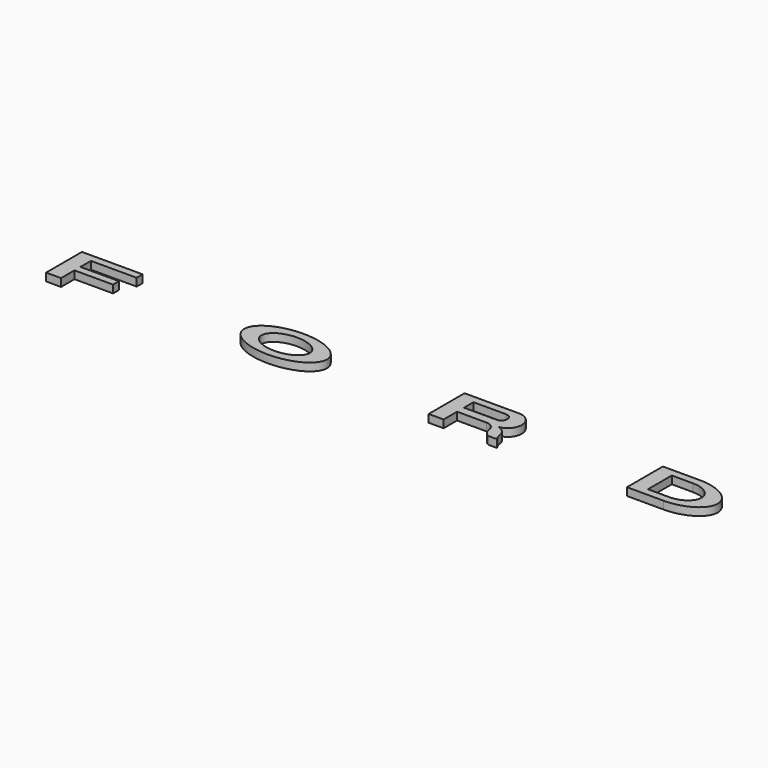
from build123d import *

# Parameters (mm, degrees)
F5_DEPTH  = 1.25
F7_DEPTH  = 1.25
F9_DEPTH  = 1.25
F11_DEPTH = 1.25


with BuildPart() as f5:
    # F4 (on face) → F5 (new body)
    with BuildSketch(Plane.XY):
        with BuildLine():
            add(Edge.make_bspline(
                [(40.8, 0), (40.8, -3.6), (46.65, -3.6)],
                knots=[3.1415926536, 3.1415926536, 3.1415926536, 4.7123889804, 4.7123889804, 4.7123889804], degree=2, weights=[1, 0.7071067812, 1]))
            Line((40.8, 0), (40.8, -3.6))
            Line((40.8, -3.6), (46.65, -3.6))
        make_face()
        with BuildLine():
            Line((46.65, 3.6), (40.8, 3.6))
            Line((40.8, 3.6), (40.8, 0))
            add(Edge.make_bspline(
                [(46.65, 3.6), (40.8, 3.6), (40.8, 0)],
                knots=[1.5707963268, 1.5707963268, 1.5707963268, 3.1415926536, 3.1415926536, 3.1415926536], degree=2, weights=[1, 0.7071067812, 1]))
        make_face()
        with BuildLine():
            add(Edge.make_bspline(
                [(46.65, 3.6), (40.8, 3.6), (40.8, 0)],
                knots=[1.5707963268, 1.5707963268, 1.5707963268, 3.1415926536, 3.1415926536, 3.1415926536], degree=2, weights=[1, 0.7071067812, 1]))
            Line((40.8, 0), (43.2, 0))
            Line((43.2, 0), (43.2, 2.4032108641))
            Line((43.2, 2.4032108641), (46.65, 2.3890721108))
            add(Edge.make_bspline(
                [(49.9, 0), (49.9, 2.3890721108), (46.65, 2.3890721108)],
                knots=[0, 0, 0, 1.5707963268, 1.5707963268, 1.5707963268], degree=2, weights=[1, 0.7071067812, 1]))
            Line((49.9, 0), (52.5, 0))
            add(Edge.make_bspline(
                [(52.5, 0), (52.5, 3.6), (46.65, 3.6)],
                knots=[0, 0, 0, 1.5707963268, 1.5707963268, 1.5707963268], degree=2, weights=[1, 0.7071067812, 1]))
        make_face()
        with BuildLine():
            Line((43.2, 0), (40.8, 0))
            add(Edge.make_bspline(
                [(40.8, 0), (40.8, -3.6), (46.65, -3.6)],
                knots=[3.1415926536, 3.1415926536, 3.1415926536, 4.7123889804, 4.7123889804, 4.7123889804], degree=2, weights=[1, 0.7071067812, 1]))
            add(Edge.make_bspline(
                [(46.65, -3.6), (52.5, -3.6), (52.5, 0)],
                knots=[4.7123889804, 4.7123889804, 4.7123889804, 6.2831853072, 6.2831853072, 6.2831853072], degree=2, weights=[1, 0.7071067812, 1]))
            Line((52.5, 0), (49.9, 0))
            add(Edge.make_bspline(
                [(46.65, -2.3890721108), (49.9, -2.3890721108), (49.9, 0)],
                knots=[4.7123889804, 4.7123889804, 4.7123889804, 6.2831853072, 6.2831853072, 6.2831853072], degree=2, weights=[1, 0.7071067812, 1]))
            Line((46.65, -2.3890721108), (43.2, -2.3967891359))
            Line((43.2, -2.3967891359), (43.2, 0))
        make_face()
    extrude(amount=F5_DEPTH)


with BuildPart() as f7:
    # F6 (on Top) → F7 (new body)
    with BuildSketch(Plane.XY):
        with BuildLine():
            Line((8.9499597691, 3.6), (8.9499597691, -3.6))
            Line((8.9499597691, -3.6), (11.3499597691, -3.6))
            Line((11.3499597691, -3.6), (11.3499597691, -0.9))
            Line((11.3499597691, -0.9), (16.1034110934, -0.9))
            ThreePointArc((16.1034110934, -0.9), (17.1223055925, -1.3382469801), (17.5499597691, -2.3616326948))
            ThreePointArc((17.5499597691, -2.3616326948), (17.8983445143, -3.1123077967), (18.5728613287, -3.5917993048))
            Line((18.5728613287, -3.5917993048), (19.9499597691, -3.6))
            ThreePointArc((19.9499597691, -3.6), (19.6592603152, -3.1329832996), (19.4874741137, -2.6103933342))
            ThreePointArc((19.4874741137, -2.6103933342), (18.9921508408, -1.4446820248), (17.8488101046, -0.8997049955))
            ThreePointArc((17.8488101046, -0.8997049955), (19.9470176311, 1.4994252406), (17.5499597691, 3.6))
            Line((17.5499597691, 3.6), (8.9499597691, 3.6))
        make_face()
        with BuildLine():
            ThreePointArc((17.5499597691, -0.9), (17.6993787617, -0.8935968227), (17.8488101046, -0.8997049955))
            ThreePointArc((17.8488101046, -0.8997049955), (17.6993898297, -0.9048091144), (17.5499597691, -0.9))
        make_face(mode=Mode.SUBTRACT)
        with BuildLine():
            Line((16.5599597691, 0.4905831765), (11.3499597691, 0.4905831765))
            Line((11.3499597691, 0.4905831765), (11.3499597691, 2.4))
            Line((11.3499597691, 2.4), (16.5599597691, 2.4))
            ThreePointArc((16.5599597691, 2.4), (17.5489298202, 1.4452915883), (16.5599597691, 0.4905831765))
        make_face(mode=Mode.SUBTRACT)
        with BuildLine():
            ThreePointArc((17.5499597691, -0.9), (17.6993898297, -0.9048091144), (17.8488101046, -0.8997049955))
            ThreePointArc((17.8488101046, -0.8997049955), (17.6993787617, -0.8935968227), (17.5499597691, -0.9))
        make_face()
    extrude(amount=F7_DEPTH)


with BuildPart() as f9:
    # F8 (on Top) → F9 (new body)
    with BuildSketch(Plane.XY):
        with BuildLine():
            add(Edge.make_bspline(
                [(-10.25, 0), (-10.25, 6.2353829072), (-20.225, 3.1176914536), (-30.2, 0), (-20.225, -3.1176914536), (-10.25, -6.2353829072), (-10.25, 0)],
                knots=[0, 0, 0, 2.0943951024, 2.0943951024, 4.1887902048, 4.1887902048, 6.2831853072, 6.2831853072, 6.2831853072], degree=2, weights=[1, 0.5, 1, 0.5, 1, 0.5, 1]))
        make_face()
        with BuildLine():
            add(Edge.make_bspline(
                [(-13.025, 0), (-13.025, 3.9837168574), (-18.8375, 1.9918584287), (-24.65, 0), (-18.8375, -1.9918584287), (-13.025, -3.9837168574), (-13.025, 0)],
                knots=[0, 0, 0, 2.0943951024, 2.0943951024, 4.1887902048, 4.1887902048, 6.2831853072, 6.2831853072, 6.2831853072], degree=2, weights=[1, 0.5, 1, 0.5, 1, 0.5, 1]))
        make_face(mode=Mode.SUBTRACT)
    extrude(amount=F9_DEPTH)


with BuildPart() as f11:
    # F10 (on Top) → F11 (new body)
    with BuildSketch(Plane.XY):
        Polygon((-42.75, 3.6), (-52.5, 3.6), (-52.5, -3.6), (-50.1, -3.6), (-50.1, -0.9), (-43.9, -0.9), (-43.9, 0.3), (-50.1, 0.3), (-50.1, 2.4), (-42.75, 2.4), align=None)
    extrude(amount=F11_DEPTH)


solid = Compound([f5.part, f7.part, f9.part, f11.part])
